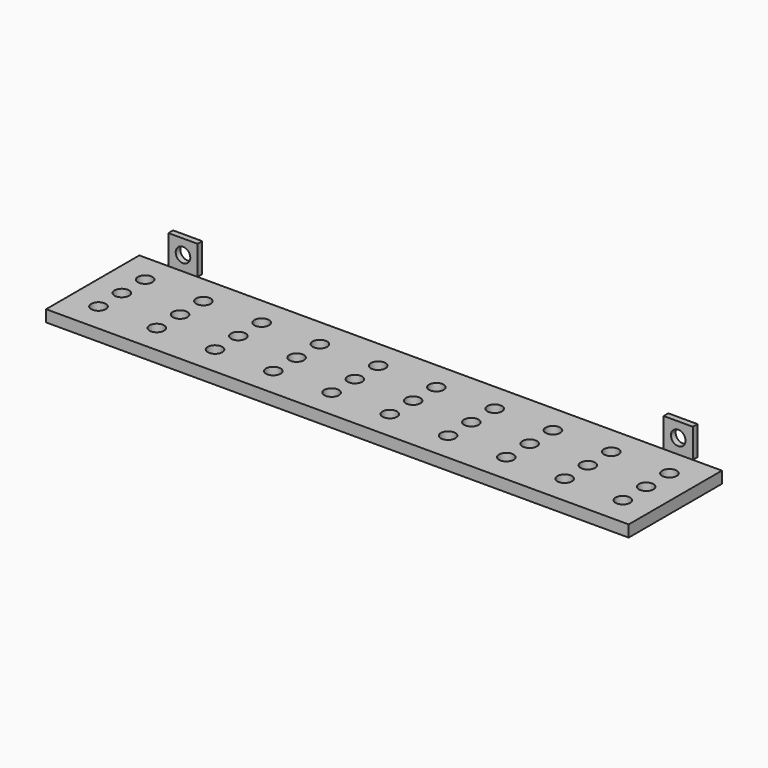
from build123d import *

# Parameters (mm, degrees)
F0_W     = 200
F0_H     = 40
F0_R     = 2.5
F1_DEPTH = 4
F2_W     = 10
F2_H     = 10
F2_R     = 2.5
F3_DEPTH = 2


with BuildPart() as f1:
    # F0 (on Top) → F1 (new body)
    with BuildSketch(Plane.XY):
        Rectangle(F0_W, F0_H)
        with Locations((-90, -10)):
            Circle(F0_R, mode=Mode.SUBTRACT)
        with Locations((-70, -10)):
            Circle(F0_R, mode=Mode.SUBTRACT)
        with Locations((-50, -10)):
            Circle(F0_R, mode=Mode.SUBTRACT)
        with Locations((-30, -10)):
            Circle(F0_R, mode=Mode.SUBTRACT)
        with Locations((-10, -10)):
            Circle(F0_R, mode=Mode.SUBTRACT)
        with Locations((10, -10)):
            Circle(F0_R, mode=Mode.SUBTRACT)
        with Locations((30, -10)):
            Circle(F0_R, mode=Mode.SUBTRACT)
        with Locations((50, -10)):
            Circle(F0_R, mode=Mode.SUBTRACT)
        with Locations((70, -10)):
            Circle(F0_R, mode=Mode.SUBTRACT)
        with Locations((90, -10)):
            Circle(F0_R, mode=Mode.SUBTRACT)
        with Locations((-90, 0)):
            Circle(F0_R, mode=Mode.SUBTRACT)
        with Locations((-70, 0)):
            Circle(F0_R, mode=Mode.SUBTRACT)
        with Locations((-50, 0)):
            Circle(F0_R, mode=Mode.SUBTRACT)
        with Locations((-30, 0)):
            Circle(F0_R, mode=Mode.SUBTRACT)
        with Locations((-10, 0)):
            Circle(F0_R, mode=Mode.SUBTRACT)
        with Locations((-90, 10)):
            Circle(F0_R, mode=Mode.SUBTRACT)
        with Locations((-70, 10)):
            Circle(F0_R, mode=Mode.SUBTRACT)
        with Locations((-50, 10)):
            Circle(F0_R, mode=Mode.SUBTRACT)
        with Locations((-30, 10)):
            Circle(F0_R, mode=Mode.SUBTRACT)
        with Locations((-10, 10)):
            Circle(F0_R, mode=Mode.SUBTRACT)
        with Locations((10, 0)):
            Circle(F0_R, mode=Mode.SUBTRACT)
        with Locations((30, 0)):
            Circle(F0_R, mode=Mode.SUBTRACT)
        with Locations((50, 0)):
            Circle(F0_R, mode=Mode.SUBTRACT)
        with Locations((70, 0)):
            Circle(F0_R, mode=Mode.SUBTRACT)
        with Locations((90, 0)):
            Circle(F0_R, mode=Mode.SUBTRACT)
        with Locations((10, 10)):
            Circle(F0_R, mode=Mode.SUBTRACT)
        with Locations((30, 10)):
            Circle(F0_R, mode=Mode.SUBTRACT)
        with Locations((50, 10)):
            Circle(F0_R, mode=Mode.SUBTRACT)
        with Locations((70, 10)):
            Circle(F0_R, mode=Mode.SUBTRACT)
        with Locations((90, 10)):
            Circle(F0_R, mode=Mode.SUBTRACT)
    extrude(amount=F1_DEPTH)


with BuildPart() as f3:
    # F2 (on face) → F3 (new body)
    with BuildSketch(Plane(origin=(0, 20, 0), x_dir=(-1, 0, 0), z_dir=(0, 1, 0))):
        with Locations((85, 9)):
            Rectangle(F2_W, F2_H)
        with Locations((85, 9)):
            Circle(F2_R, mode=Mode.SUBTRACT)
        with Locations((-85, 9)):
            Rectangle(F2_W, F2_H)
        with Locations((-85, 9)):
            Circle(F2_R, mode=Mode.SUBTRACT)
    extrude(amount=F3_DEPTH)


solid = Compound([f1.part, f3.part])
